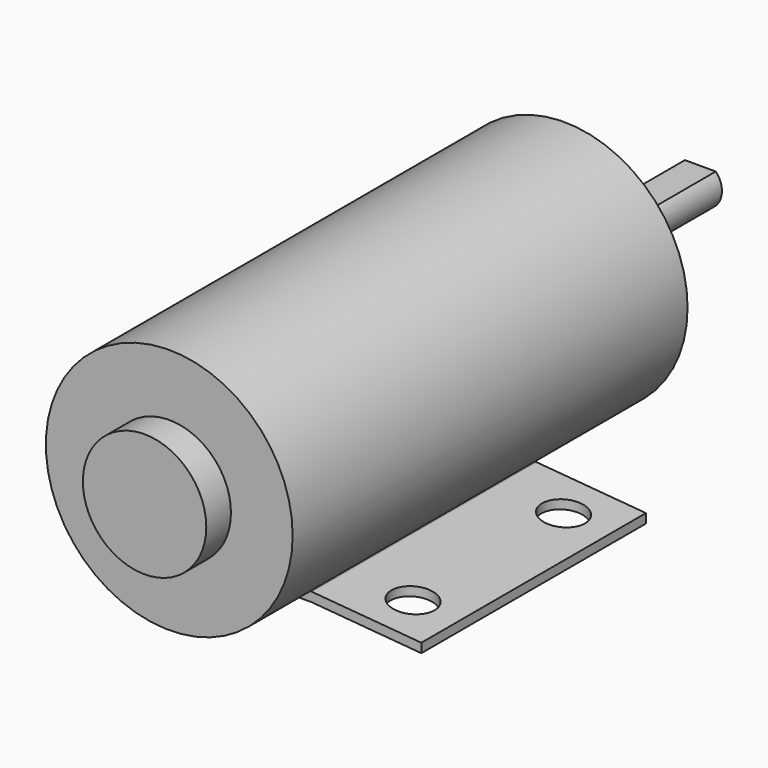
from build123d import *

# Parameters (mm, degrees)
F1_DEPTH   = 91
F4_D       = 14
F4_ON_F3_D = 14
F6_R       = 40
F7_DEPTH   = 160
F8_R       = 20
F9_DEPTH   = 10
F10_R      = 21.25
F11_DEPTH  = 10
F13_DEPTH  = 45


with BuildPart() as f1:
    # F0 (on Front) → F1 (new body)
    with BuildSketch(Plane.XZ):
        Polygon((-50.5, 3), (-50.5, 0), (-15, 3), (15, 3), (50.5, 0), (50.5, 3), (15, 6), (-15, 6), align=None)
    extrude(amount=F1_DEPTH)

    # F4 (through all)
    with Locations(Plane(origin=(-0.3580854836, 0, 4.2373448887), x_dir=(0.9964482919, 0, 0.0842068979), z_dir=(0.0842068979, 0, -0.9964482919))):
        with Locations((-35.3206387388, 76), (-35.3206387388, 15)):
            Hole(F4_D / 2)

    # F4 on F3 (through all)
    with Locations(Plane(origin=(0.3580854836, 0, 4.2373448887), x_dir=(0.9964482919, 0, -0.0842068979), z_dir=(-0.0842068979, 0, -0.9964482919))):
        with Locations((35.3206387388, 76), (35.3206387388, 15)):
            Hole(F4_ON_F3_D / 2)


with BuildPart() as f7:
    # F6 (on offset) → F7 (new body)
    with BuildSketch(Plane.XZ.offset(-30)):
        with Locations((0, 46)):
            Circle(F6_R)
    extrude(amount=F7_DEPTH)

    # F8 (on face) → F9 (join)
    with BuildSketch(Plane.XZ.offset(130)):
        with Locations((0, 46)):
            Circle(F8_R)
    extrude(amount=F9_DEPTH)

    # F10 (on face) → F11 (join)
    with BuildSketch(Plane(origin=(0, 30, 0), x_dir=(-1, 0, 0), z_dir=(0, 1, 0))):
        with Locations((0, 46)):
            Circle(F10_R)
    extrude(amount=F11_DEPTH)

    # F12 (on face) → F13 (join)
    with BuildSketch(Plane(origin=(0, 40, 0), x_dir=(-1, 0, 0), z_dir=(0, 1, 0))):
        with BuildLine():
            Line((4.8587004589, 51.1613599355), (-5.1412995411, 51.1613599355))
            ThreePointArc((-5.1412995411, 51.1613599355), (-7.1412995411, 46.2623804499), (-5.1412995411, 41.3634009644))
            Line((-5.1412995411, 41.3634009644), (4.8587004589, 41.3634009644))
            ThreePointArc((4.8587004589, 41.3634009644), (6.8587004589, 46.2623804499), (4.8587004589, 51.1613599355))
        make_face()
    extrude(amount=F13_DEPTH)


solid = Compound([f1.part, f7.part])
